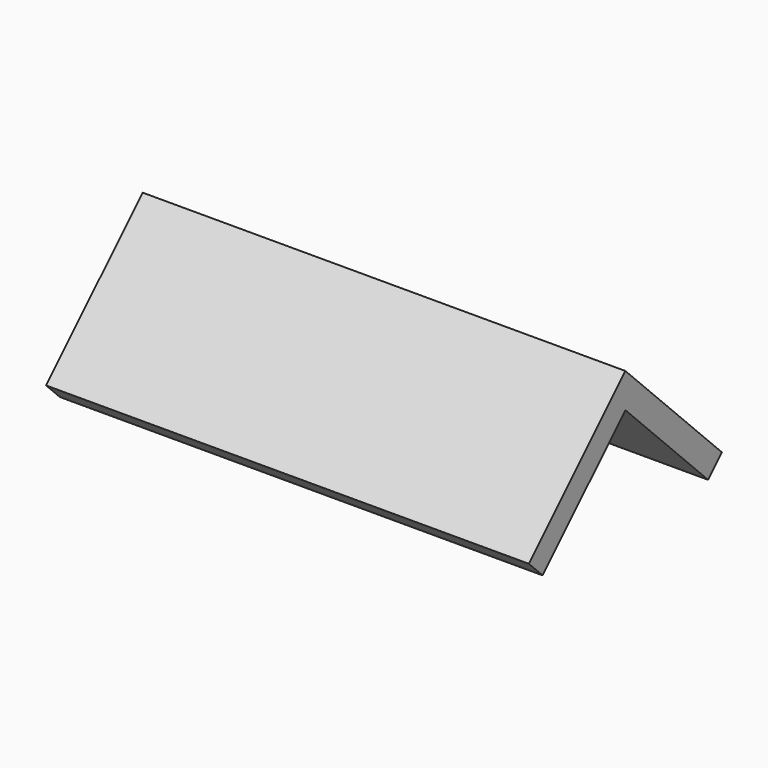
from build123d import *

# Parameters (mm, degrees)
F0_W     = 12.7
F0_H     = 50.8
F1_DEPTH = 101.6
F3_DEPTH = 12.701
F4_DEPTH = 165.1
F6_DEPTH = 177.801
F8_DEPTH = 177.801


with BuildPart() as f1:
    # F0 (on Front) → F1 (new body)
    with BuildSketch(Plane.XZ):
        Rectangle(F0_W, F0_H)
    extrude(amount=F1_DEPTH)

    # F2 (on face) → F3 (cut, through all)
    with BuildSketch(Plane.YZ.offset(6.35)):
        Polygon((-101.6, 25.4), (-101.6, -25.4), (-50.8, 25.4), align=None)
        Polygon((0, 25.4), (-50.8, 25.4), (0, -25.4), align=None)
    extrude(amount=-F3_DEPTH, mode=Mode.SUBTRACT)

    # F4 (add): a face of the model
    f4_faces = [f1.faces().sort_by_distance(p)[0] for p in [
        (-6.35, -50.8, -8.4666666667),
    ]]
    extrude(f4_faces, amount=F4_DEPTH)

    # F5 (on face) → F6 (cut, through all)
    with BuildSketch(Plane.YZ.offset(6.35)):
        Polygon((-50.7999999233, 12.7000000767), (-88.9, -25.4), (-12.6999998465, -25.4), align=None)
    extrude(amount=-F6_DEPTH, mode=Mode.SUBTRACT)

    # F7 (on face) → F8 (cut, through all)
    with BuildSketch(Plane.YZ.offset(6.35)):
        Polygon((-6.3499999233, -19.0500000767), (-12.6999998465, -25.4), (0, -25.4), align=None)
        Polygon((-101.6, -25.4), (-88.9, -25.4), (-95.25, -19.05), align=None)
    extrude(amount=-F8_DEPTH, mode=Mode.SUBTRACT)


solid = f1.part
